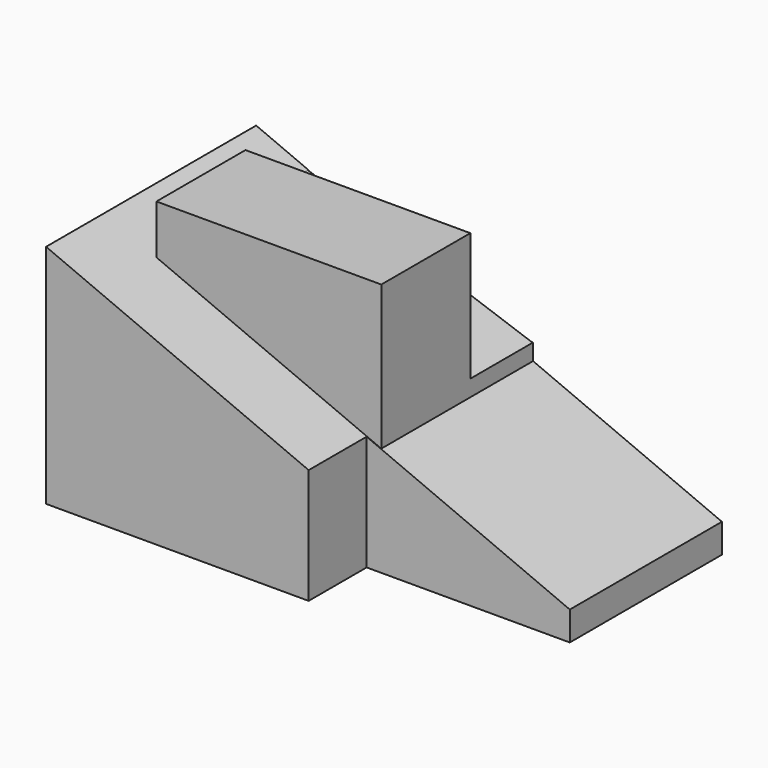
from build123d import *

# Parameters (mm, degrees)
F1_DEPTH  = 50
F3_DEPTH  = 81.2
F4_DEPTH  = 25
F5_W      = 49.6666632582
F5_H      = 56
F6_DEPTH  = 41.9
F7_W      = 49.6666632582
F7_H      = 17.3173451722
F8_DEPTH  = 28.3
F10_DEPTH = 17.2


with BuildPart() as f1:
    # F0 (on Top) → F1 (new body)
    with BuildSketch(Plane.XY):
        Polygon((102.878117487, 58), (0, 58), (0, 0), (58, 0), (58, 16), (16, 16), (16, 42), (88, 42), (88, 16), (102.878117487, 16), align=None)
        Polygon((16, 16), (58, 16), (88, 16), (88, 42), (16, 42), align=None)
    extrude(amount=F1_DEPTH)

    # F2 (on face) → F3 (cut)
    with BuildSketch(Plane.XZ):
        Polygon((58, 50), (0, 50), (58, 25.4237288136), align=None)
        Polygon((58, 50), (58, 25.4237288136), (118, 0), (102.9013991356, 50), align=None)
    extrude(amount=-F3_DEPTH, mode=Mode.SUBTRACT)

    # F2 (on face) → F4 (cut)
    with BuildSketch(Plane.XZ):
        Polygon((58, 50), (58, 25.4237288136), (118, 0), (102.9013991356, 50), align=None)
    extrude(amount=-F4_DEPTH, mode=Mode.SUBTRACT)

    # F5 (on face) → F6 (join)
    with BuildSketch(Plane(origin=(0, 58, 0), x_dir=(-1, 0, 0), z_dir=(0, 1, 0))):
        with Locations((-36.3266665494, 28)):
            Rectangle(F5_W, F5_H)
    extrude(amount=-F6_DEPTH)

    # F7 (on face) → F8 (cut)
    with BuildSketch(Plane.XY.offset(56)):
        with Locations((36.3266665494, 49.3413274139)):
            Rectangle(F7_W, F7_H)
    extrude(amount=-F8_DEPTH, mode=Mode.SUBTRACT)

    # F9 (on face) → F10 (join)
    with BuildSketch(Plane(origin=(0, 40.6826548278, 0), x_dir=(-1, 0, 0), z_dir=(0, 1, 0))):
        Polygon((-11.4933349202, 45.1299428304), (-61.1599981785, 27.7), (-11.4933349202, 27.7), align=None)
    extrude(amount=F10_DEPTH)


solid = f1.part
